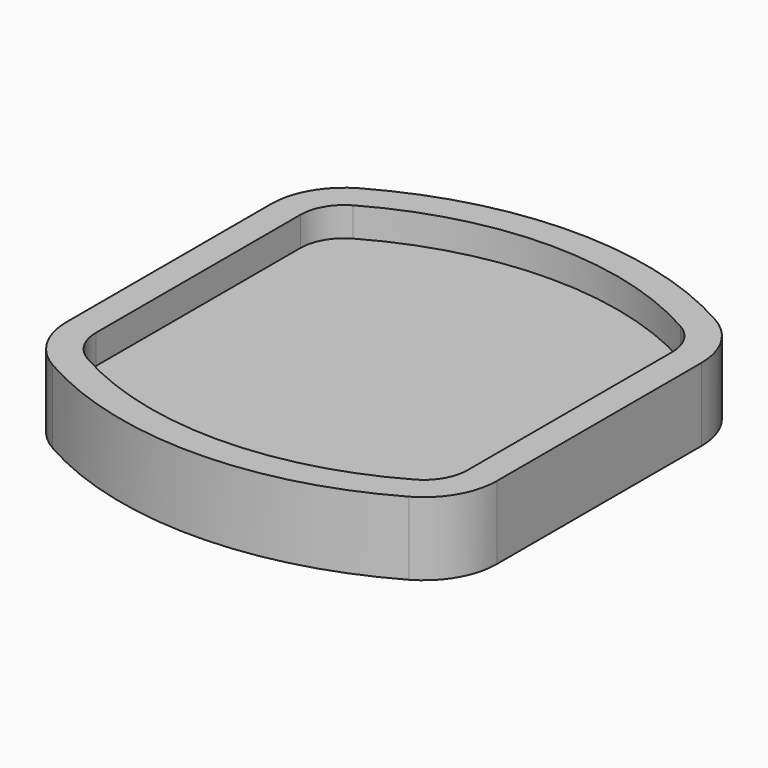
from build123d import *

# Parameters (mm, degrees)
F1_DEPTH = 6.35
F3_DEPTH = 9.525


with BuildPart() as f1:
    # F0 (on Top) → F1 (new body)
    with BuildSketch(Plane.XY):
        with BuildLine():
            Line((46.6725, -27.735808), (46.6725, 27.735808))
            ThreePointArc((46.6725, 27.735808), (44.518987, 35.719317), (38.642716, 41.536831))
            ThreePointArc((38.642716, 41.536831), (0, 51.7525), (-38.642716, 41.536831))
            ThreePointArc((-38.642716, 41.536831), (-44.518987, 35.719317), (-46.6725, 27.735808))
            Line((-46.6725, 27.735808), (-46.6725, -27.735808))
            ThreePointArc((-46.6725, -27.735808), (-44.518987, -35.719317), (-38.642716, -41.536831))
            ThreePointArc((-38.642716, -41.536831), (0, -51.7525), (38.642716, -41.536831))
            ThreePointArc((38.642716, -41.536831), (44.518987, -35.719317), (46.6725, -27.735808))
        make_face()
        with BuildLine():
            ThreePointArc((-35.504629, -36.016422), (-39.030392, -32.525914), (-40.3225, -27.735808))
            Line((-40.3225, -27.735808), (-40.3225, 27.735808))
            ThreePointArc((-40.3225, 27.735808), (-39.030392, 32.525914), (-35.504629, 36.016422))
            ThreePointArc((-35.504629, 36.016422), (0, 45.4025), (35.504629, 36.016422))
            ThreePointArc((35.504629, 36.016422), (39.030392, 32.525914), (40.3225, 27.735808))
            Line((40.3225, 27.735808), (40.3225, -27.735808))
            ThreePointArc((40.3225, -27.735808), (39.030392, -32.525914), (35.504629, -36.016422))
            ThreePointArc((35.504629, -36.016422), (0, -45.4025), (-35.504629, -36.016422))
        make_face(mode=Mode.SUBTRACT)
    extrude(amount=F1_DEPTH)

    # F2 (on Top) → F3 (join)
    with BuildSketch(Plane.XY):
        with BuildLine():
            ThreePointArc((38.642716, -41.536831), (44.518987, -35.719317), (46.6725, -27.735808))
            Line((46.6725, -27.735808), (46.6725, 27.735808))
            ThreePointArc((46.6725, 27.735808), (44.518987, 35.719317), (38.642716, 41.536831))
            ThreePointArc((38.642716, 41.536831), (0, 51.7525), (-38.642716, 41.536831))
            ThreePointArc((-38.642716, 41.536831), (-44.518987, 35.719317), (-46.6725, 27.735808))
            Line((-46.6725, 27.735808), (-46.6725, -27.735808))
            ThreePointArc((-46.6725, -27.735808), (-44.518987, -35.719317), (-38.642716, -41.536831))
            ThreePointArc((-38.642716, -41.536831), (0, -51.7525), (38.642716, -41.536831))
        make_face()
    extrude(amount=-F3_DEPTH)


solid = f1.part
